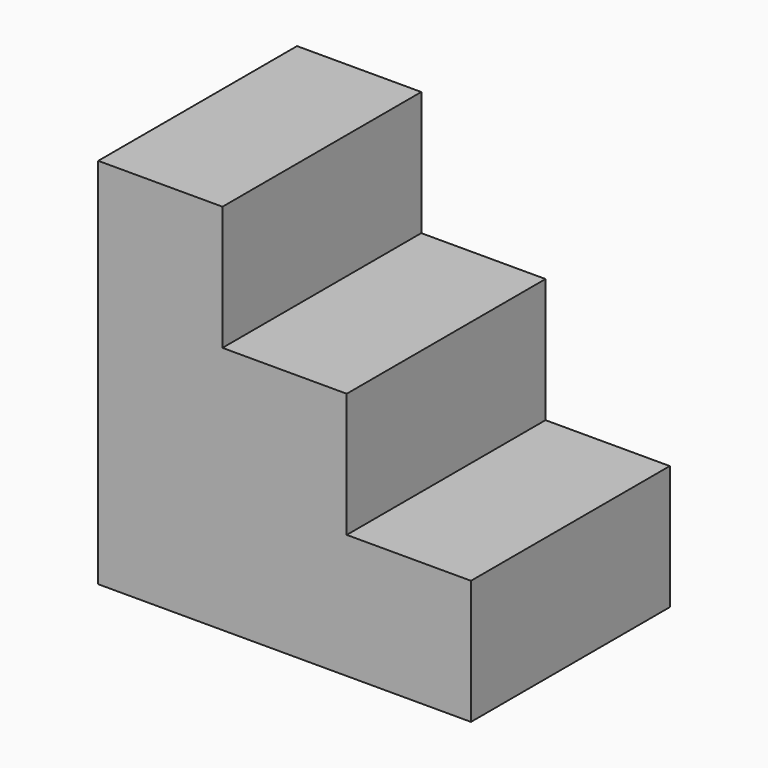
from build123d import *

# Parameters (mm, degrees)
F0_W     = 30
F0_H     = 20
F1_DEPTH = 30
F3_DEPTH = 20.001


with BuildPart() as f1:
    # F0 (on Top) → F1 (new body)
    with BuildSketch(Plane.XY):
        with Locations((-21.356977, -2.198044)):
            Rectangle(F0_W, F0_H)
    extrude(amount=F1_DEPTH)

    # F2 (on face) → F3 (cut, through all)
    with BuildSketch(Plane.XZ.offset(12.198044)):
        Polygon((-6.356977, 30), (-26.356977, 30), (-26.356977, 20), (-16.356977, 20), (-16.356977, 10), (-6.356977, 10), align=None)
    extrude(amount=-F3_DEPTH, mode=Mode.SUBTRACT)


solid = f1.part
